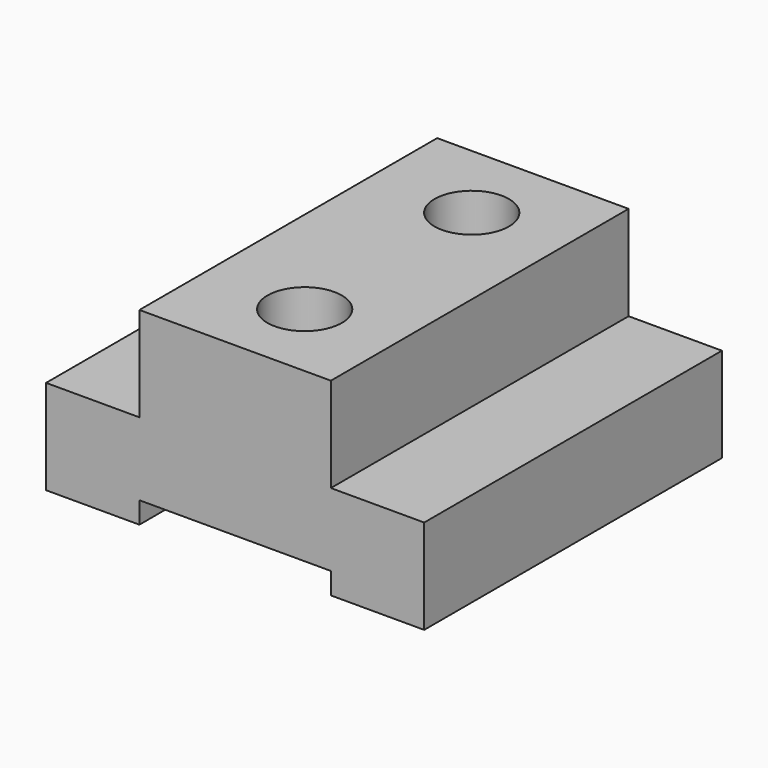
from build123d import *

# Parameters (mm, degrees)
F1_DEPTH = 100
F3_D     = 20


with BuildPart() as f1:
    # F0 (on Front) → F1 (new body)
    with BuildSketch(Plane.XZ):
        Polygon((-17.148554, -2.782671), (-17.148554, 22.617329), (-42.870075, 22.617329), (-42.870075, -22.395332), (-17.148554, -22.395332), (-17.148554, -28.182671), (7.929928, -28.182671), (7.929928, -2.782671), align=None)
        Polygon((-42.870075, -22.395332), (-42.870075, 22.617329), (-68.591596, 22.617329), (-68.591596, -2.782671), (-93.670078, -2.782671), (-93.670078, -28.182671), (-68.591596, -28.182671), (-68.591596, -22.395332), align=None)
    extrude(amount=F1_DEPTH)

    # F3 (through all)
    with Locations(Plane.XY.offset(22.617329)):
        with Locations((-41.735466, -21.940365), (-41.735466, -78.059635)):
            Hole(F3_D / 2)


solid = f1.part
